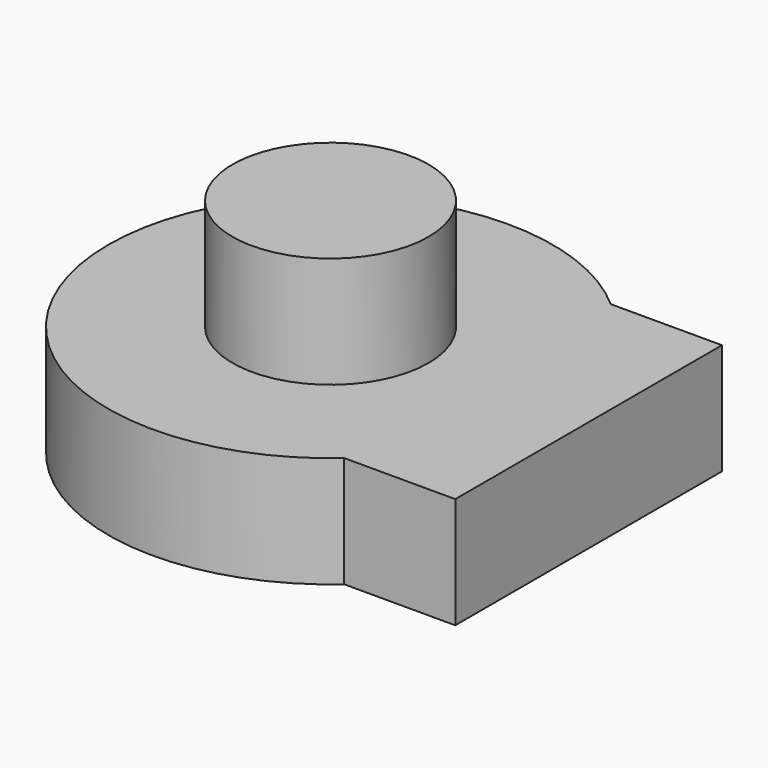
from build123d import *

# Parameters (mm, degrees)
F1_DEPTH = 25.4
F2_R     = 22.411022
F3_DEPTH = 25.4


with BuildPart() as f1:
    # F0 (on Top) → F1 (new body)
    with BuildSketch(Plane.XY):
        with BuildLine():
            Line((59.001042, 38.1), (33.601042, 38.1))
            ThreePointArc((33.601042, 38.1), (-50.8, 0), (33.601042, -38.1))
            Line((33.601042, -38.1), (59.001042, -38.1))
            Line((59.001042, -38.1), (59.001042, 38.1))
        make_face()
    extrude(amount=F1_DEPTH)

    # F2 (on face) → F3 (join)
    with BuildSketch(Plane.XY.offset(25.4)):
        Circle(F2_R)
    extrude(amount=F3_DEPTH)


solid = f1.part
